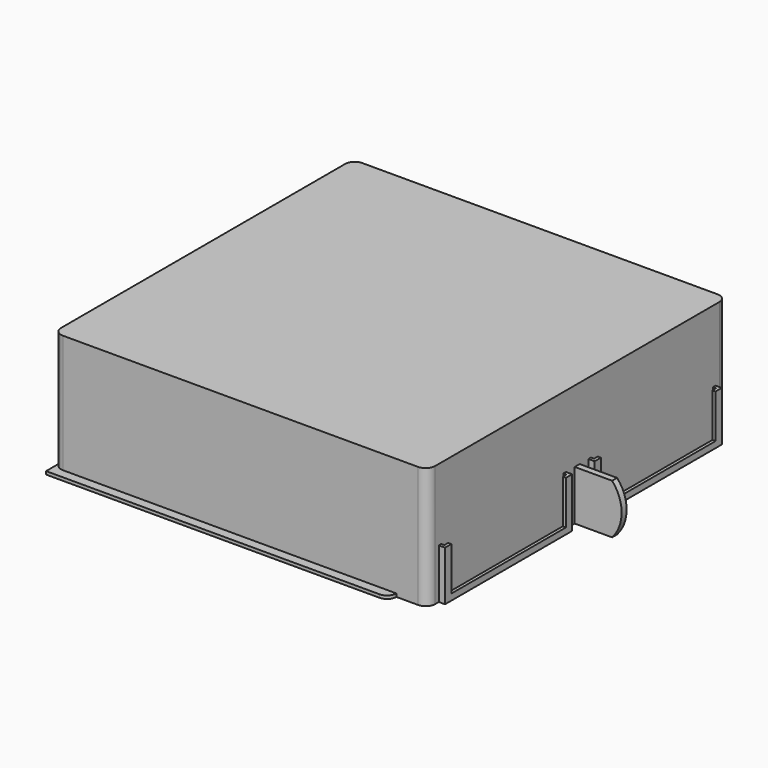
from build123d import *

# Parameters (mm, degrees)
PAD_DEPTH       = 39
PAD001_DEPTH    = 1
SKETCH002_W     = 51
SKETCH002_H     = 16
PAD002_DEPTH    = 2
SKETCH003_W     = 46
SKETCH003_H     = 14
POCKET_DEPTH    = 3
SKETCH004_W     = 49
SKETCH004_H     = 15
POCKET001_DEPTH = 1
PAD003_DEPTH    = 1


with BuildPart() as part:
    # Sketch → Pad (new body)
    with BuildSketch(Plane.XY):
        with BuildLine():
            Line((-57, 60), (57, 60))
            ThreePointArc((60, 57), (59.12132, 59.12132), (57, 60))
            Line((60, 57), (60, -57))
            ThreePointArc((57, -60), (59.12132, -59.12132), (60, -57))
            Line((57, -60), (-57, -60))
            ThreePointArc((-60, -57), (-59.12132, -59.12132), (-57, -60))
            Line((-60, -57), (-60, 57))
            ThreePointArc((-57, 60), (-59.12132, 59.12132), (-60, 57))
        make_face()
    extrude(amount=PAD_DEPTH)

    # Sketch001 → Pad001 (join)
    with BuildSketch(Plane.XY):
        with BuildLine():
            Line((-60, 63), (47, 63))
            ThreePointArc((50, 60), (49.12132, 62.12132), (47, 63))
            Line((50, 60), (50, -60))
            ThreePointArc((47, -63), (49.12132, -62.12132), (50, -60))
            Line((47, -63), (-60, -63))
            Line((-60, -63), (-60, 63))
        make_face()
    extrude(amount=PAD001_DEPTH)

    # Sketch002 (on Face19 of Pad001) → Pad002 (join)
    with BuildSketch(Plane.YZ.offset(60)):
        with Locations((-30, 8)):
            Rectangle(SKETCH002_W, SKETCH002_H)
        with Locations((30, 8)):
            Rectangle(SKETCH002_W, SKETCH002_H)
    extrude(amount=PAD002_DEPTH)

    # Sketch003 (on DatumPlane) → Pocket (cut)
    with BuildSketch(Plane.YZ.offset(60)):
        with Locations((-30, 9)):
            Rectangle(SKETCH003_W, SKETCH003_H)
        with Locations((30, 9)):
            Rectangle(SKETCH003_W, SKETCH003_H)
    extrude(amount=POCKET_DEPTH, mode=Mode.SUBTRACT)

    # Sketch004 (on DatumPlane) → Pocket001 (cut)
    with BuildSketch(Plane.YZ.offset(60)):
        with Locations((-30, 8.5)):
            Rectangle(SKETCH004_W, SKETCH004_H)
        with Locations((30, 8.5)):
            Rectangle(SKETCH004_W, SKETCH004_H)
    extrude(amount=POCKET001_DEPTH, mode=Mode.SUBTRACT)

    # Sketch005 → Pad003 (join, symmetric)
    with BuildSketch(Plane.XZ):
        with BuildLine():
            ThreePointArc((72, 0), (75.055728, 8), (72, 16))
            Line((72, 16), (60, 16))
            Line((60, 16), (60, 0))
            Line((60, 0), (72, 0))
        make_face()
    extrude(amount=PAD003_DEPTH, both=True)


solid = part.part
